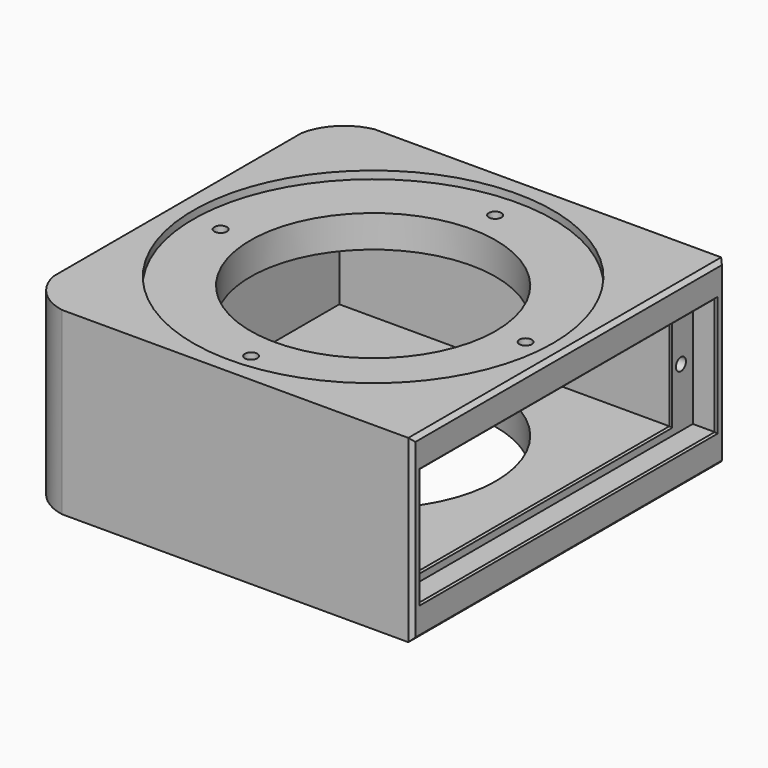
from build123d import *

# Parameters (mm, degrees)
SKETCH005_W     = 50
SKETCH005_H     = 50
SKETCH005_R     = 15.69193
PAD_DEPTH       = 23
SKETCH006_W     = 40.8
SKETCH006_H     = 12.8
POCKET_DEPTH    = 40.2
SKETCH011_W     = 47.2
SKETCH011_H     = 15
POCKET001_DEPTH = 3
SKETCH012_R     = 0.8
SKETCH012_W     = 40.2
SKETCH012_H     = 12.8
POCKET002_DEPTH = 5
SKETCH020_R     = 23
POCKET007_DEPTH = 1
SKETCH021_R     = 23
POCKET008_DEPTH = 1
SKETCH022_R     = 0.8
POCKET009_DEPTH = 5
SKETCH023_R     = 0.8
POCKET010_DEPTH = 5
POCKET015_DEPTH = 23.001
CHAMFER012_SIZE = 0.2
CHAMFER_SIZE    = 0.5


with BuildPart() as part:
    # Sketch005 → Pad (new body)
    with BuildSketch(Plane.XY):
        Rectangle(SKETCH005_W, SKETCH005_H)
        Circle(SKETCH005_R, mode=Mode.SUBTRACT)
    extrude(amount=PAD_DEPTH)

    # Sketch006 → Pocket (cut)
    with BuildSketch(Plane.XZ.offset(20.1)):
        with Locations((0, 11.5)):
            Rectangle(SKETCH006_W, SKETCH006_H)
    extrude(amount=-POCKET_DEPTH, mode=Mode.SUBTRACT)

    # Sketch011 → Pocket001 (cut)
    with BuildSketch(Plane.YZ.offset(25)):
        with Locations((0, 11.5)):
            Rectangle(SKETCH011_W, SKETCH011_H)
    extrude(amount=-POCKET001_DEPTH, mode=Mode.SUBTRACT)

    # Sketch012 → Pocket002 (cut)
    with BuildSketch(Plane.YZ.offset(22)):
        with Locations((-21.7, 11.5)):
            Circle(SKETCH012_R)
        with Locations((21.7, 11.5)):
            Circle(SKETCH012_R)
        with Locations((0, 11.5)):
            Rectangle(SKETCH012_W, SKETCH012_H)
    extrude(amount=-POCKET002_DEPTH, mode=Mode.SUBTRACT)

    # Sketch020 → Pocket007 (cut)
    with BuildSketch(Plane.XY):
        Circle(SKETCH020_R)
    extrude(amount=POCKET007_DEPTH, mode=Mode.SUBTRACT)

    # Sketch021 → Pocket008 (cut)
    with BuildSketch(Plane.XY.offset(23.01)):
        Circle(SKETCH021_R)
    extrude(amount=-POCKET008_DEPTH, mode=Mode.SUBTRACT)

    # Sketch022 → Pocket009 (cut)
    with BuildSketch(Plane.XY):
        with Locations((-19.5, 0)):
            Circle(SKETCH022_R)
        with Locations((0, -19.5)):
            Circle(SKETCH022_R)
        with Locations((19.5, 0)):
            Circle(SKETCH022_R)
        with Locations((0, 19.5)):
            Circle(SKETCH022_R)
    extrude(amount=POCKET009_DEPTH, mode=Mode.SUBTRACT)

    # Sketch023 → Pocket010 (cut)
    with BuildSketch(Plane.XY.offset(23)):
        with Locations((-19.5, 0)):
            Circle(SKETCH023_R)
        with Locations((0, -19.5)):
            Circle(SKETCH023_R)
        with Locations((19.5, 0)):
            Circle(SKETCH023_R)
        with Locations((0, 19.5)):
            Circle(SKETCH023_R)
    extrude(amount=-POCKET010_DEPTH, mode=Mode.SUBTRACT)

    # Sketch033 → Pocket015 (cut, through all)
    with BuildSketch(Plane.XY):
        with BuildLine():
            Line((-19, 25.1), (-25.1, 25.1))
            Line((-25.1, 19), (-25.1, 25.1))
            ThreePointArc((-19, 25.1), (-23.203288, 23.203288), (-25.1, 19))
        make_face()
        with BuildLine():
            Line((-25.1, -19), (-25.1, -25.1))
            Line((-19, -25.1), (-25.1, -25.1))
            ThreePointArc((-25.1, -19), (-23.203288, -23.203288), (-19, -25.1))
        make_face()
    extrude(amount=POCKET015_DEPTH, mode=Mode.SUBTRACT)

    # Chamfer012
    chamfer012_edges = [part.edges().sort_by_distance(p)[0] for p in [
        (22, 0, 5.1),
        (22, 20.1, 11.5),
        (22, 0, 17.9),
        (22, -20.1, 11.5),
        (25, -23.6, 11.5),
        (25, 0, 4),
        (25, 23.6, 11.5),
        (25, 0, 19),
    ]]
    chamfer(chamfer012_edges, length=CHAMFER012_SIZE)

    # Chamfer
    chamfer_edges = [part.edges().sort_by_distance(p)[0] for p in [
        (25, 25, 11.5),
        (25, 0, 0),
        (25, 0, 23),
        (25, -25, 11.5),
    ]]
    chamfer(chamfer_edges, length=CHAMFER_SIZE)


with BuildPart() as part_1:
    # Body002 placement: moved
    add(part.part.moved(Location((0, 0, -2))))


solid = part_1.part
